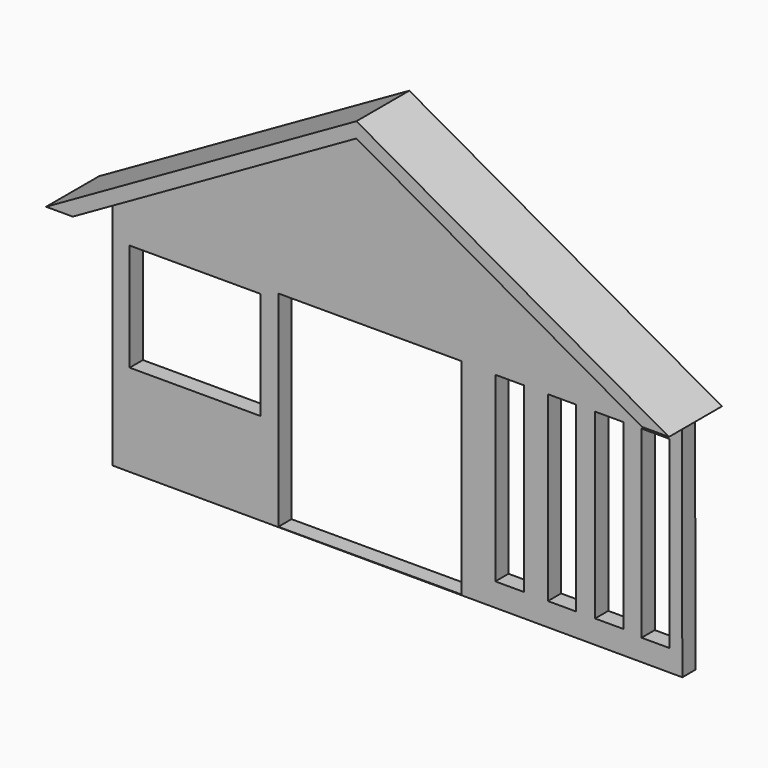
from build123d import *

# Parameters (mm, degrees)
F1_DEPTH = 25.4
F0_W     = 50.249045
F0_H     = 41.289222
F0_W_2   = 10.963962
F0_H_2   = 69.855044
F0_W_3   = 10.736913
F0_H_3   = 69.938791
F0_W_4   = 10.926557
F0_W_5   = 10.777219
F0_H_4   = 70.689816
F2_DEPTH = 6.35


with BuildPart() as f1:
    # F0 (on Front) → F1 (new body)
    with BuildSketch(Plane.XZ):
        Polygon((120.030824, 56.654841), (0, 124.314497), (-119.148239, 56.654841), (-108.888481, 56.654841), (0, 118.488379), (109.695067, 56.654841), align=None)
    extrude(amount=F1_DEPTH)

    # F0 (on Front) → F2 (join)
    with BuildSketch(Plane.XZ):
        Polygon((120.030824, 56.654841), (0, 124.314497), (-119.148239, 56.654841), (-108.888481, 56.654841), (0, 118.488379), (109.695067, 56.654841), align=None)
        Polygon((0, 118.488379), (-108.888481, 56.654841), (-108.888481, -35.221372), (25.100315, -35.485315), (109.909483, -35.65238), (109.695067, 56.654841), align=None)
        Polygon((25.100315, -33.438011), (25.100315, -35.221372), (-10.065087, -35.221372), (-45.23049, -35.221372), (-45.23049, -33.438011), (-45.23049, 43.660895), (-10.065087, 43.660895), (25.100315, 43.660895), (25.100315, 0), align=None, mode=Mode.SUBTRACT)
        with Locations((-77.174244, 20.644611)):
            Rectangle(F0_W, F0_H, mode=Mode.SUBTRACT)
        with Locations((43.580463, 8.343125)):
            Rectangle(F0_W_2, F0_H_2, mode=Mode.SUBTRACT)
        with Locations((63.659296, 8.301251)):
            Rectangle(F0_W_3, F0_H_3, mode=Mode.SUBTRACT)
        with Locations((81.857928, 8.301251)):
            Rectangle(F0_W_4, F0_H_3, mode=Mode.SUBTRACT)
        with Locations((99.639848, 7.980304)):
            Rectangle(F0_W_5, F0_H_4, mode=Mode.SUBTRACT)
    extrude(amount=F2_DEPTH)


solid = f1.part
